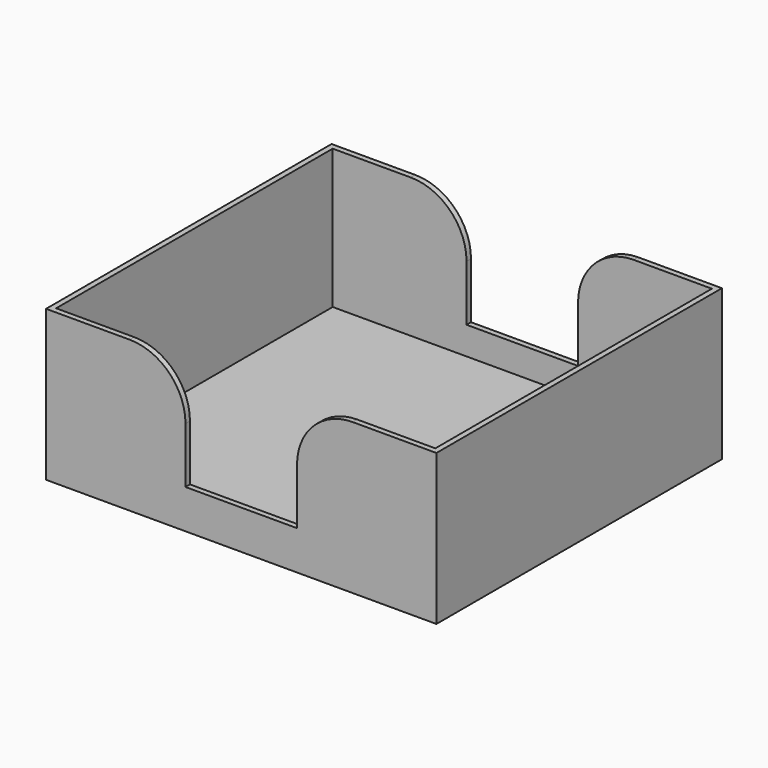
from build123d import *

# Parameters (mm, degrees)
F0_W     = 70
F0_H     = 64
F1_DEPTH = 2
F2_W     = 70
F2_H     = 64
F2_W_2   = 68
F2_H_2   = 62
F3_DEPTH = 25
F5_DEPTH = 125


with BuildPart() as f1:
    # F0 (on Top) → F1 (new body)
    with BuildSketch(Plane.XY):
        Rectangle(F0_W, F0_H)
    extrude(amount=F1_DEPTH)

    # F2 (on face) → F3 (join)
    with BuildSketch(Plane.XY.offset(2)):
        Rectangle(F2_W, F2_H)
        Rectangle(F2_W_2, F2_H_2, mode=Mode.SUBTRACT)
    extrude(amount=F3_DEPTH)

    # F4 (on face) → F5 (cut)
    with BuildSketch(Plane.XZ.offset(32)):
        with BuildLine():
            Line((-10, 7), (0, 7))
            Line((0, 7), (10, 7))
            Line((10, 7), (10, 17))
            ThreePointArc((10, 17), (12.928932, 24.071068), (20, 27))
            Line((20, 27), (-20, 27))
            ThreePointArc((-20, 27), (-12.928932, 24.071068), (-10, 17))
            Line((-10, 17), (-10, 7))
        make_face()
    extrude(amount=-F5_DEPTH, mode=Mode.SUBTRACT)


solid = f1.part
